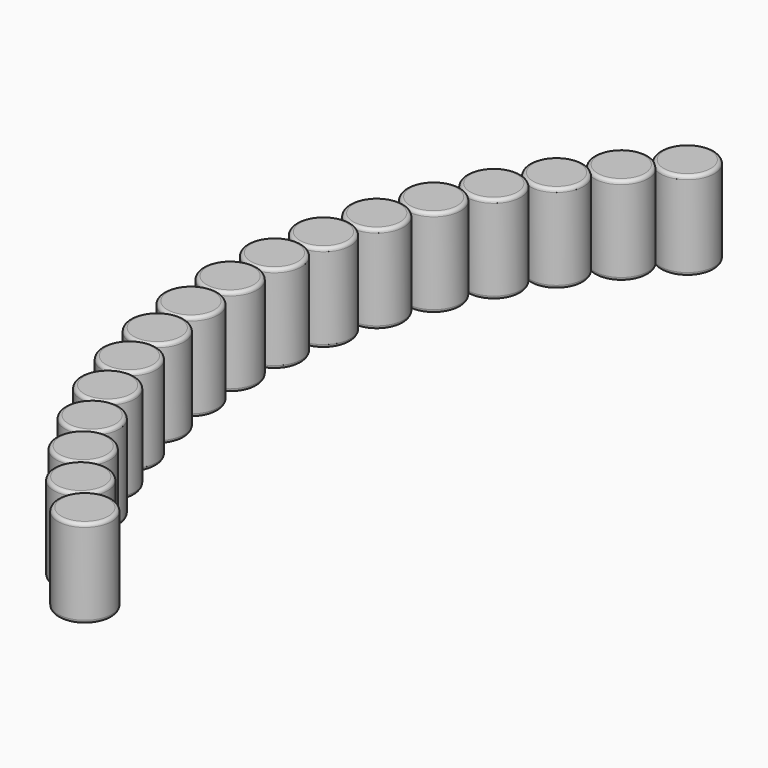
from build123d import *

# Parameters (mm, degrees)
SKETCH_R           = 1.525
PAD_DEPTH          = 5
FILLET_R           = 0.2
POLARPATTERN_COUNT = 17
POLARPATTERN_ANGLE = 90


with BuildPart() as part:
    # Sketch (on XY_Plane of Origin) → Pad (new body)
    with BuildSketch(Plane.XY):
        with Locations((-21.213203, 21.213203)):
            Circle(SKETCH_R)
    extrude(amount=PAD_DEPTH)

    # Fillet
    fillet_edges = [part.edges().sort_by_distance(p)[0] for p in [
        (-22.738203, 21.213203, 5),
        (-22.738203, 21.213203, 0),
    ]]
    fillet(fillet_edges, radius=FILLET_R)

    # PolarPattern: part ×17 about axis
    polarpattern_axis = Axis((0, 0, 0), (0, 0, 1))


with BuildPart() as part_1:
    add(part.part)
    for i in range(1, POLARPATTERN_COUNT):
        add(part.part.rotate(polarpattern_axis, i * POLARPATTERN_ANGLE / (POLARPATTERN_COUNT - 1)))


solid = part_1.part
